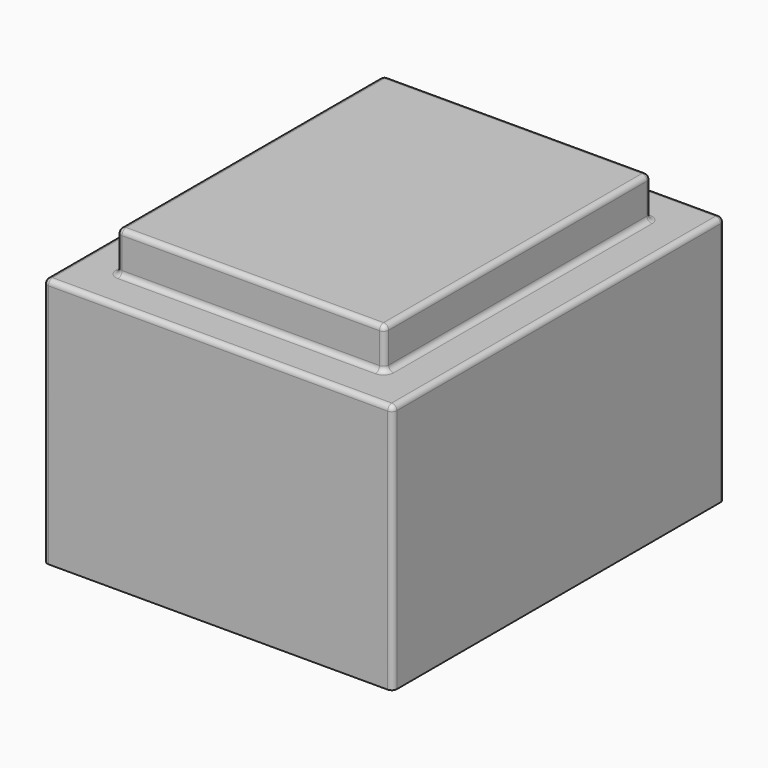
from build123d import *

# Parameters (mm, degrees)
SKETCH_W     = 34.2
SKETCH_H     = 40.6
PAD_DEPTH    = 24.5
SKETCH001_W  = 26.2
SKETCH001_H  = 32.6
PAD001_DEPTH = 4
FILLET_R     = 0.5


with BuildPart() as part:
    # Sketch → Pad (new body)
    with BuildSketch(Plane.XY):
        Rectangle(SKETCH_W, SKETCH_H)
    extrude(amount=PAD_DEPTH)

    # Sketch001 (on Face6 of Pad) → Pad001 (join)
    with BuildSketch(Plane.XY.offset(24.5)):
        Rectangle(SKETCH001_W, SKETCH001_H)
    extrude(amount=PAD001_DEPTH)

    # Fillet
    fillet_edges = [part.edges().sort_by_distance(p)[0] for p in [
        (0, -16.3, 28.5),
        (-13.1, 0, 28.5),
        (13.1, 0, 28.5),
        (0, 16.3, 28.5),
        (0, 20.3, 24.5),
        (17.1, 0, 24.5),
        (0, -20.3, 24.5),
        (-17.1, 0, 24.5),
        (-13.1, -16.3, 26.5),
        (0, -16.3, 24.5),
        (13.1, -16.3, 26.5),
        (13.1, 0, 24.5),
        (13.1, 16.3, 26.5),
        (0, 16.3, 24.5),
        (-13.1, 16.3, 26.5),
        (-13.1, 0, 24.5),
        (-17.1, 20.3, 12.25),
        (17.1, -20.3, 12.25),
        (17.1, 20.3, 12.25),
        (-17.1, -20.3, 12.25),
    ]]
    fillet(fillet_edges, radius=FILLET_R)


solid = part.part
